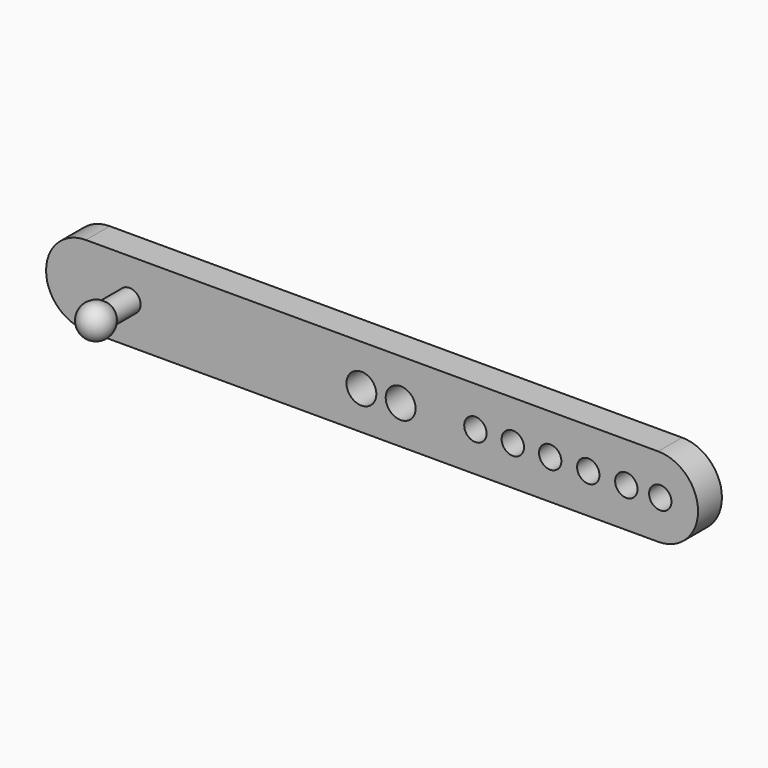
from build123d import *

# Parameters (mm, degrees)
F0_W     = 73.025
F0_H     = 10.16
F1_DEPTH = 3.81
F2_R     = 1.905
F3_DEPTH = 25.4
F4_R     = 1.4271764556
F5_DEPTH = 5.334
F8_DEPTH = 12.7


with BuildPart() as f1:
    # F0 (on Front) → F1 (new body)
    with BuildSketch(Plane.XZ):
        with Locations((-1.1446364224, 30.9704801631)):
            Rectangle(F0_W, F0_H)
        with BuildLine():
            Line((-37.6571364224, 25.8904801631), (-37.6571364224, 36.0504801631))
            ThreePointArc((-37.6571364224, 36.0504801631), (-42.7371364224, 30.9704801631), (-37.6571364224, 25.8904801631))
        make_face()
        with BuildLine():
            ThreePointArc((35.3678635776, 25.8904801631), (40.4478635776, 30.9704801631), (35.3678635776, 36.0504801631))
            Line((35.3678635776, 36.0504801631), (35.3678635776, 25.8904801631))
        make_face()
    extrude(amount=F1_DEPTH)

    # F2 (on face) → F3 (cut)
    with BuildSketch(Plane(origin=(0, 0, 0), x_dir=(-1, 0, 0), z_dir=(0, 1, 0))):
        with Locations((-2.501526066, 30.7850678974)):
            Circle(F2_R)
        with Locations((2.5040135862, 30.7850678974)):
            Circle(F2_R)
    extrude(amount=-F3_DEPTH, mode=Mode.SUBTRACT)

    # F4 (on face) → F8 (cut, symmetric)
    with BuildSketch(Plane.XZ.offset(3.81)):
        with Locations((12.0419440791, 30.9313628823)):
            Circle(F4_R)
        with Locations((16.8155636638, 30.9313628823)):
            Circle(F4_R)
        with Locations((21.5852679685, 30.9313628823)):
            Circle(F4_R)
        with Locations((31.2978178263, 30.9313628823)):
            Circle(F4_R)
        with Locations((26.4415415004, 30.9313628823)):
            Circle(F4_R)
        with Locations((35.6300286949, 30.9313610196)):
            Circle(F4_R)
    extrude(amount=F8_DEPTH, both=True, mode=Mode.SUBTRACT)


with BuildPart() as f5:
    # F4 (on face) → F5 (new body)
    with BuildSketch(Plane.XZ.offset(3.81)):
        with Locations((-32.1075096726, 31.0475099832)):
            Circle(F4_R)
    extrude(amount=F5_DEPTH)

    # F6 (on face) → F7 (revolve)
    with BuildSketch(Plane.XZ.offset(9.144)):
        with BuildLine():
            ThreePointArc((-30.0441175426, 30.9797544092), (-32.1075096726, 33.0853011488), (-34.1709018026, 30.9797544092))
            Line((-34.1709018026, 30.9797544092), (-33.5330768641, 30.9797544092))
            ThreePointArc((-33.5330768641, 30.9797544092), (-32.1413970137, 32.474284066), (-30.6803332171, 31.0475099832))
            ThreePointArc((-30.6803332171, 31.0475099832), (-30.6807355898, 31.0136226421), (-30.6819424811, 30.9797544092))
            Line((-30.6819424811, 30.9797544092), (-30.0441175426, 30.9797544092))
        make_face()
        with BuildLine():
            ThreePointArc((-30.6803332171, 31.0475099832), (-32.1413970137, 32.474284066), (-33.5330768641, 30.9797544092))
            Line((-33.5330768641, 30.9797544092), (-30.6819424811, 30.9797544092))
            ThreePointArc((-30.6819424811, 30.9797544092), (-30.6807355898, 31.0136226421), (-30.6803332171, 31.0475099832))
        make_face()
    revolve(axis=Axis((-32.1075096726, -9.144, 30.9797544092), (1, 0, 0)))


solid = Compound([f1.part, f5.part])
